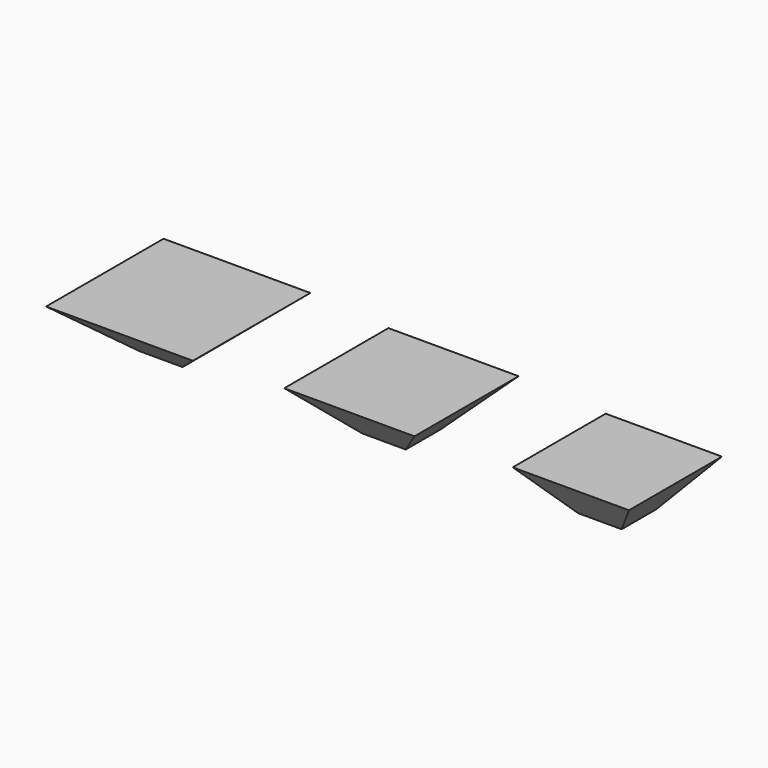
from build123d import *

# Parameters (mm, degrees)
F0_W     = 7
F0_H     = 7
F1_DEPTH = 7
F1_TAPER = -45
F2_W     = 7
F2_H     = 7
F3_DEPTH = 7
F3_TAPER = -50
F4_W     = 7
F4_H     = 7
F5_DEPTH = 7
F5_TAPER = -40


with BuildPart() as f1:
    # F0 (on Top) → F1 (new body)
    with BuildSketch(Plane.XY):
        Rectangle(F0_W, F0_H)
    extrude(amount=F1_DEPTH, taper=F1_TAPER)


with BuildPart() as f3:
    # F2 (on Top) → F3 (new body)
    with BuildSketch(Plane.XY):
        with Locations((-36.0080571588, 0)):
            Rectangle(F2_W, F2_H)
    extrude(amount=F3_DEPTH, taper=F3_TAPER)


with BuildPart() as f5:
    # F4 (on Top) → F5 (new body)
    with BuildSketch(Plane.XY):
        with Locations((34.8231363494, 0)):
            Rectangle(F4_W, F4_H)
    extrude(amount=F5_DEPTH, taper=F5_TAPER)


solid = Compound([f1.part, f3.part, f5.part])
